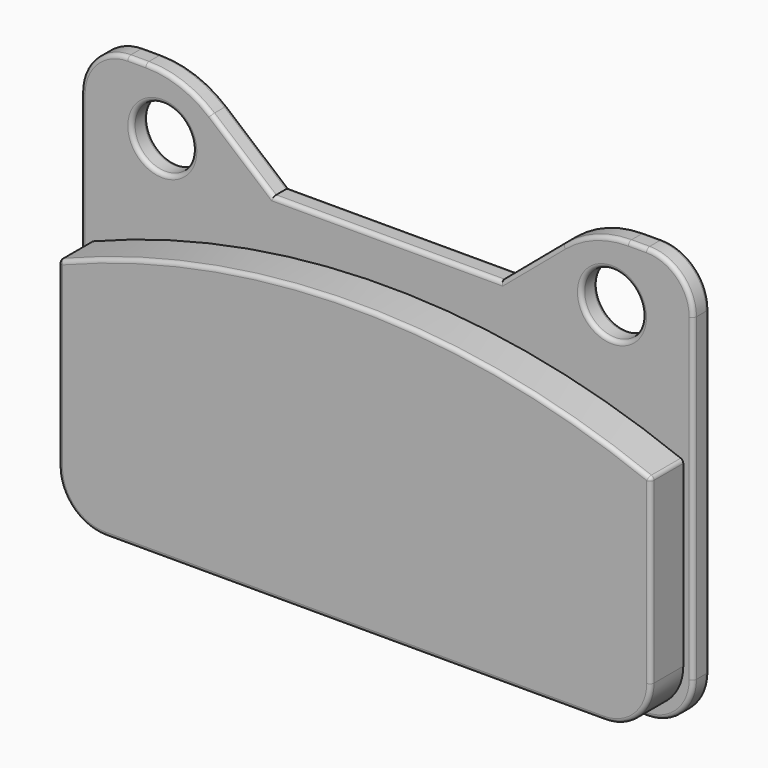
from build123d import *

# Parameters (mm, degrees)
F1_DEPTH = 76.2
F0_R     = 38.1
F2_DEPTH = 25.4
F3_R     = 5.08


with BuildPart() as f1:
    # F0 (on Front) → F1 (new body)
    with BuildSketch(Plane.XZ):
        with BuildLine():
            ThreePointArc((-370.205, -187.071), (-353.094178, -228.380178), (-311.785, -245.491))
            Line((-311.785, -245.491), (311.785, -245.491))
            ThreePointArc((311.785, -245.491), (353.094178, -228.380178), (370.205, -187.071))
            Line((370.205, -187.071), (370.205, 39.523602))
            ThreePointArc((370.205, 39.523602), (0, 110.675989), (-370.205, 39.523602))
            Line((-370.205, 39.523602), (-370.205, -187.071))
        make_face()
    extrude(amount=F1_DEPTH)

    # F0 (on Front) → F2 (join)
    with BuildSketch(Plane.XZ):
        with BuildLine():
            ThreePointArc((382.651, 199.517), (365.540178, 240.826178), (324.231, 257.937))
            Line((324.231, 257.937), (301.631649, 257.937))
            ThreePointArc((301.631649, 257.937), (257.986472, 250.201825), (219.657879, 227.938552))
            Line((219.657879, 227.938552), (142.633971, 162.847427))
            Line((142.633971, 162.847427), (-142.633971, 162.847427))
            Line((-142.633971, 162.847427), (-219.657879, 227.938552))
            ThreePointArc((-219.657879, 227.938552), (-257.986472, 250.201825), (-301.631649, 257.937))
            Line((-301.631649, 257.937), (-324.231, 257.937))
            ThreePointArc((-324.231, 257.937), (-365.540178, 240.826178), (-382.651, 199.517))
            Line((-382.651, 199.517), (-382.651, -199.517))
            ThreePointArc((-382.651, -199.517), (-365.540178, -240.826178), (-324.231, -257.937))
            Line((-324.231, -257.937), (324.231, -257.937))
            ThreePointArc((324.231, -257.937), (365.540178, -240.826178), (382.651, -199.517))
            Line((382.651, -199.517), (382.651, 199.517))
        make_face()
        with BuildLine():
            Line((311.785, -245.491), (-311.785, -245.491))
            ThreePointArc((-311.785, -245.491), (-353.094178, -228.380178), (-370.205, -187.071))
            Line((-370.205, -187.071), (-370.205, 39.523602))
            ThreePointArc((-370.205, 39.523602), (0, 110.675989), (370.205, 39.523602))
            Line((370.205, 39.523602), (370.205, -187.071))
            ThreePointArc((370.205, -187.071), (353.094178, -228.380178), (311.785, -245.491))
        make_face(mode=Mode.SUBTRACT)
        with Locations((-281.051, 181.737)):
            Circle(F0_R, mode=Mode.SUBTRACT)
        with Locations((281.051, 181.737)):
            Circle(F0_R, mode=Mode.SUBTRACT)
    extrude(amount=F2_DEPTH)

    # F3
    f3_edges = [f1.edges().sort_by_distance(p)[0] for p in [
        (-382.651, -25.4, 0),
        (-365.540178, -25.4, 240.826178),
        (-312.931324, -25.4, 257.937),
        (-257.986472, -25.4, 250.201825),
        (-181.145925, -25.4, 195.392989),
        (0, -25.4, 162.847427),
        (181.145925, -25.4, 195.392989),
        (257.986472, -25.4, 250.201825),
        (312.931324, -25.4, 257.937),
        (365.540178, -25.4, 240.826178),
        (382.651, -25.4, 0),
        (365.540178, -25.4, -240.826178),
        (0, -25.4, -257.937),
        (353.094178, -76.2, -228.380178),
        (370.205, -76.2, -73.773699),
        (0, -76.2, -245.491),
        (0, -76.2, 110.675989),
        (-382.651, 0, 0),
        (-365.540178, 0, 240.826178),
        (382.651, 0, 0),
        (365.540178, 0, 240.826178),
        (312.931324, 0, 257.937),
        (0, 0, 162.847427),
        (-181.145925, 0, 195.392989),
        (242.951, 0, 181.737),
        (242.951, -25.4, 181.737),
        (370.205, -50.8, 39.523602),
        (-370.205, -76.2, -73.773699),
        (-370.205, -50.8, 39.523602),
        (-353.094178, -76.2, -228.380178),
        (-365.540178, -25.4, -240.826178),
        (-365.540178, 0, -240.826178),
        (-319.151, -25.4, 181.737),
        (-319.151, 0, 181.737),
        (-312.931324, 0, 257.937),
        (-257.986472, 0, 250.201825),
        (257.986472, 0, 250.201825),
        (181.145925, 0, 195.392989),
        (365.540178, 0, -240.826178),
    ]]
    fillet(f3_edges, radius=F3_R)


solid = f1.part
